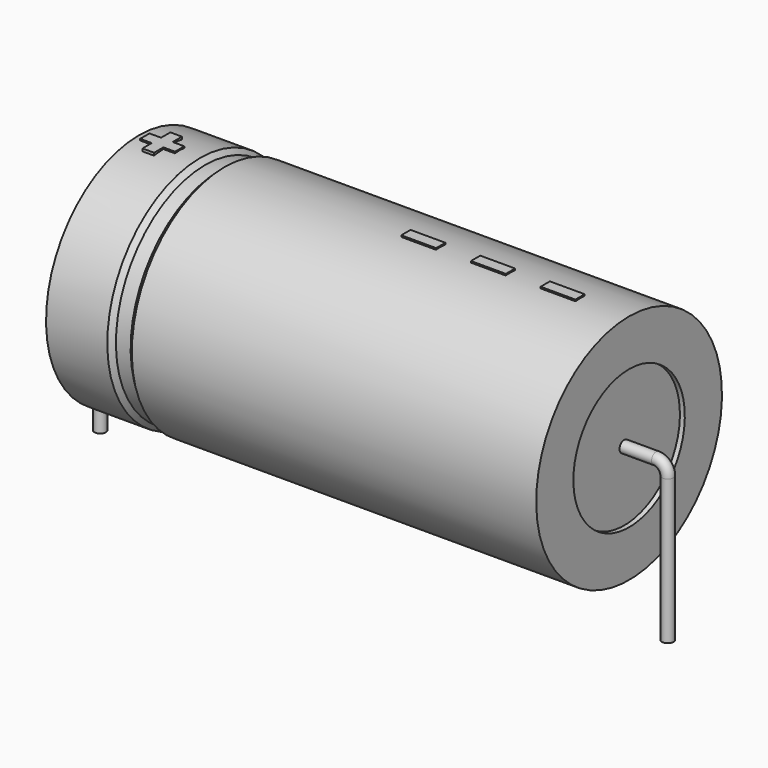
from build123d import *

# Parameters (mm, degrees)
SKETCH_R    = 0.45
SKETCH004_W = 2.7
SKETCH004_H = 0.9
PAD_DEPTH   = 9.09


with BuildPart() as sweep_body:
    # Sweep: sweep along a path in Sketch001
    with BuildLine(Plane.XZ) as sweep_path:
        Line((0, -3), (0, 8.2))
        ThreePointArc((0, 8.2), (0.2636, 8.836392), (0.899988, 9.1))
        Line((0.899988, 9.1), (43.1, 9.1))
        ThreePointArc((43.1, 9.1), (43.736396, 8.836396), (44, 8.2))
        Line((44, 8.2), (44, -3))
    # Sketch → Sweep (sweep)
    with BuildSketch(Plane.XY.offset(-2)):
        Circle(SKETCH_R)
    sweep(path=sweep_path.line)


with BuildPart() as revolution:
    # Sketch002 → Revolution (revolve)
    with BuildSketch(Plane.XZ):
        Polygon((3, 18.1), (3, 14.5), (41, 14.5), (41, 18.1), (9.65, 18.1), (9.27, 17.74), (8.13, 17.74), (7.75, 18.1), align=None)
    revolve(axis=Axis((6.97588, 0, 9.1), (1, 0, 0)))


with BuildPart() as revolution001:
    # Sketch003 → Revolution001 (revolve)
    with BuildSketch(Plane.XZ):
        Polygon((3.38, 17.74), (5.28, 17.74), (5.28, 10), (38.72, 10), (38.72, 17.74), (40.62, 17.74), (40.62, 9.1), (3.38, 9.1), align=None)
    revolve(axis=Axis((6.97588, 0, 9.1), (1, 0, 0)))


with BuildPart() as pad:
    # Sketch004 → Pad (new body)
    with BuildSketch(Plane.XY.offset(9.1)):
        with Locations((35.85, 0)):
            Rectangle(SKETCH004_W, SKETCH004_H)
        with Locations((30.45, 0)):
            Rectangle(SKETCH004_W, SKETCH004_H)
        with Locations((25.05, 0)):
            Rectangle(SKETCH004_W, SKETCH004_H)
        Polygon((4.356, 0.45), (3.456, 0.45), (3.456, -0.45), (4.356, -0.45), (4.356, -1.35), (5.256, -1.35), (5.256, -0.45), (6.156, -0.45), (6.156, 0.45), (5.256, 0.45), (5.256, 1.35), (4.356, 1.35), align=None)
    extrude(amount=PAD_DEPTH)


solid = Compound([sweep_body.part, revolution.part, revolution001.part, pad.part])
